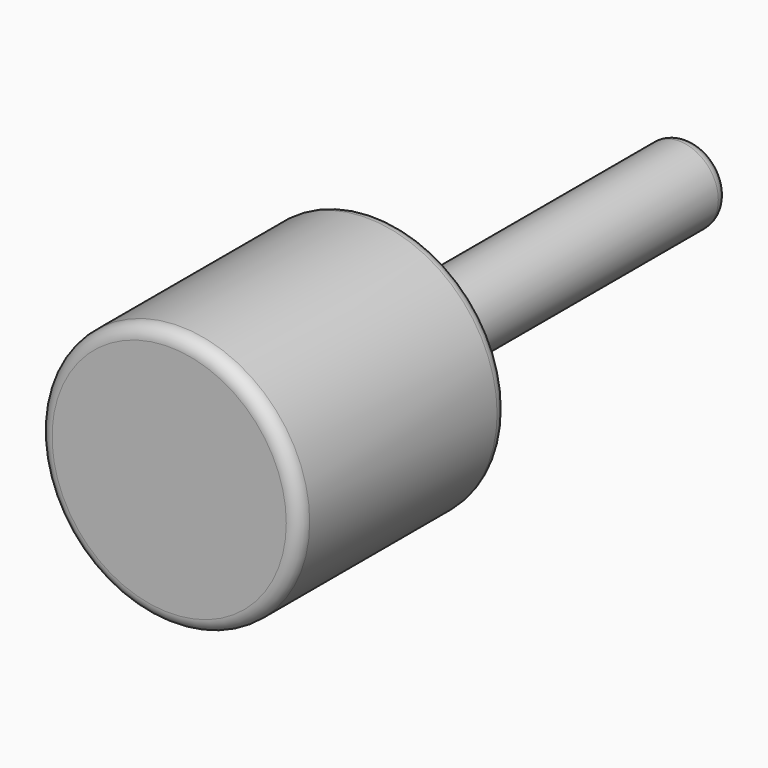
from build123d import *

# Parameters (mm, degrees)
F0_R     = 3
F1_DEPTH = 50
F2_R     = 1
F3_R     = 10
F3_R_2   = 3
F4_DEPTH = 20
F5_R     = 1


with BuildPart() as f1:
    # F0 (on Front) → F1 (new body)
    with BuildSketch(Plane.XZ):
        Circle(F0_R)
    extrude(amount=F1_DEPTH)

    # F2
    f2_edges = [f1.edges().sort_by_distance(p)[0] for p in [
        (-3, 0, 0),
    ]]
    fillet(f2_edges, radius=F2_R)

    # F3 (on face) → F4 (join)
    with BuildSketch(Plane.XZ.offset(50)):
        Circle(F3_R)
        Circle(F3_R_2, mode=Mode.SUBTRACT)
    extrude(amount=-F4_DEPTH)

    # F5
    f5_edges = [f1.edges().sort_by_distance(p)[0] for p in [
        (-3, -30, 0),
        (-10, -30, 0),
        (-10, -50, 0),
    ]]
    fillet(f5_edges, radius=F5_R)


solid = f1.part
